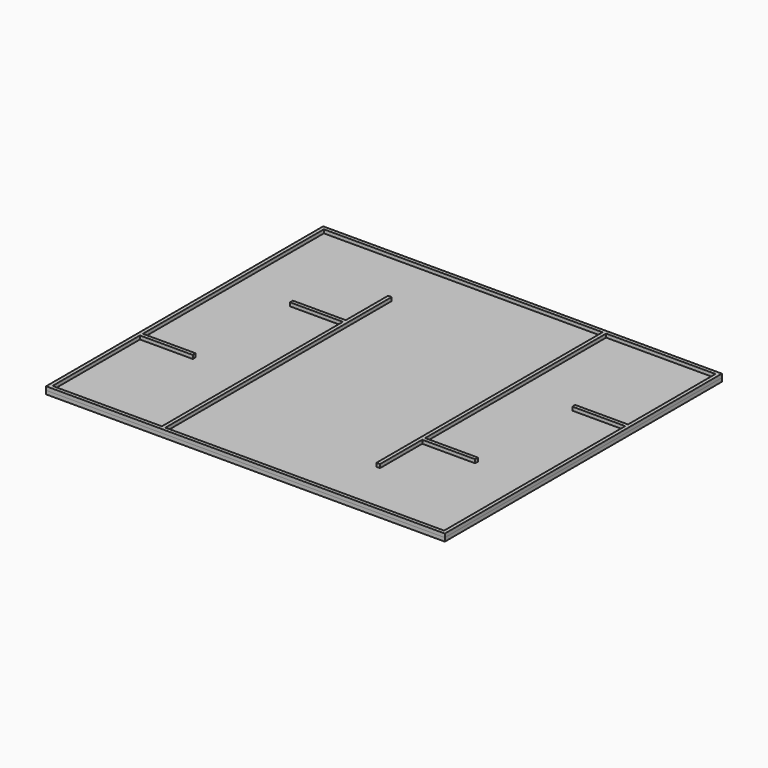
from build123d import *

# Parameters (mm, degrees)
F1_W     = 4238
F1_H     = 3681
F2_DEPTH = 38
F0_W     = 38
F0_H     = 38
F0_W_2   = 562
F0_H_2   = 1162
F3_DEPTH = 38


with BuildPart() as f2:
    # F1 (on Top) → F2 (new body)
    with BuildSketch(Plane.XY):
        Rectangle(F1_W, F1_H)
    extrude(amount=-F2_DEPTH)


with BuildPart() as f3:
    # F0 (on Top) → F3 (new body)
    with BuildSketch(Plane.XY):
        Polygon((-2119, 1840.5), (-2119, 640.5), (-2081, 640.5), (-2081, 1802.5), (-1557, 1802.5), (-1519, 1802.5), (-919, 1802.5), (-919, 1840.5), align=None)
        with Locations((-900, 1821.5)):
            Rectangle(F0_W, F0_H)
        Polygon((881, 1802.5), (881, 1840.5), (-881, 1840.5), (-881, 1802.5), (-281, 1802.5), (-243, 1802.5), align=None)
        Polygon((-919, 640.5), (-881, 640.5), (-881, 1164.5), (-881, 1202.5), (-919, 1202.5), (-919, 1164.5), align=None)
        with Locations((-2100, 621.5)):
            Rectangle(F0_W, F0_H)
        Polygon((-2119, 602.5), (-2119, -602.5), (-2081, -602.5), (-2081, -40.5), (-2081, 40.5), (-2081, 602.5), align=None)
        with Locations((-1200, 621.5)):
            Rectangle(F0_W_2, F0_H)
        with Locations((-1800, -621.5)):
            Rectangle(F0_W_2, F0_H)
        with Locations((-2100, -621.5)):
            Rectangle(F0_W, F0_H)
        Polygon((-2119, -1840.5), (-919, -1840.5), (-919, -1802.5), (-2081, -1802.5), (-2081, -640.5), (-2119, -640.5), align=None)
        with Locations((-900, -621.5)):
            Rectangle(F0_W, F0_H)
        Polygon((-919, -602.5), (-881, -602.5), (-881, -121.5), (-881, 121.5), (-881, 602.5), (-919, 602.5), (-919, 40.5), (-919, -40.5), align=None)
        with Locations((-900, 621.5)):
            Rectangle(F0_W, F0_H)
        with Locations((-900, -1221.5)):
            Rectangle(F0_W, F0_H_2)
        with Locations((-900, -1821.5)):
            Rectangle(F0_W, F0_H)
        Polygon((-881, -1840.5), (881, -1840.5), (881, -1802.5), (281, -1802.5), (243, -1802.5), (-881, -1802.5), align=None)
        Polygon((919, -1840.5), (2119, -1840.5), (2119, -1802.5), (2081, -1802.5), (1557, -1802.5), (1519, -1802.5), (919, -1802.5), align=None)
        with Locations((2100, -621.5)):
            Rectangle(F0_W, F0_H)
        Polygon((2081, -602.5), (2119, -602.5), (2119, 602.5), (2081, 602.5), (2081, 40.5), (2081, -40.5), align=None)
        with Locations((900, -621.5)):
            Rectangle(F0_W, F0_H)
        with Locations((900, 621.5)):
            Rectangle(F0_W, F0_H)
        with Locations((900, 1221.5)):
            Rectangle(F0_W, F0_H_2)
        Polygon((2081, 640.5), (2119, 640.5), (2119, 1840.5), (919, 1840.5), (919, 1802.5), (2081, 1802.5), align=None)
        with Locations((1200, -621.5)):
            Rectangle(F0_W_2, F0_H)
        with Locations((900, -1821.5)):
            Rectangle(F0_W, F0_H)
        with Locations((2100, 621.5)):
            Rectangle(F0_W, F0_H)
        Polygon((881, -1202.5), (919, -1202.5), (919, -1164.5), (919, -640.5), (881, -640.5), (881, -1164.5), align=None)
        with Locations((1800, 621.5)):
            Rectangle(F0_W_2, F0_H)
        with Locations((2100, -1221.5)):
            Rectangle(F0_W, F0_H_2)
        Polygon((881, -602.5), (919, -602.5), (919, -40.5), (919, 40.5), (919, 602.5), (881, 602.5), (881, 121.5), (881, -121.5), align=None)
        with Locations((900, 1821.5)):
            Rectangle(F0_W, F0_H)
    extrude(amount=F3_DEPTH)


solid = Compound([f2.part, f3.part])
